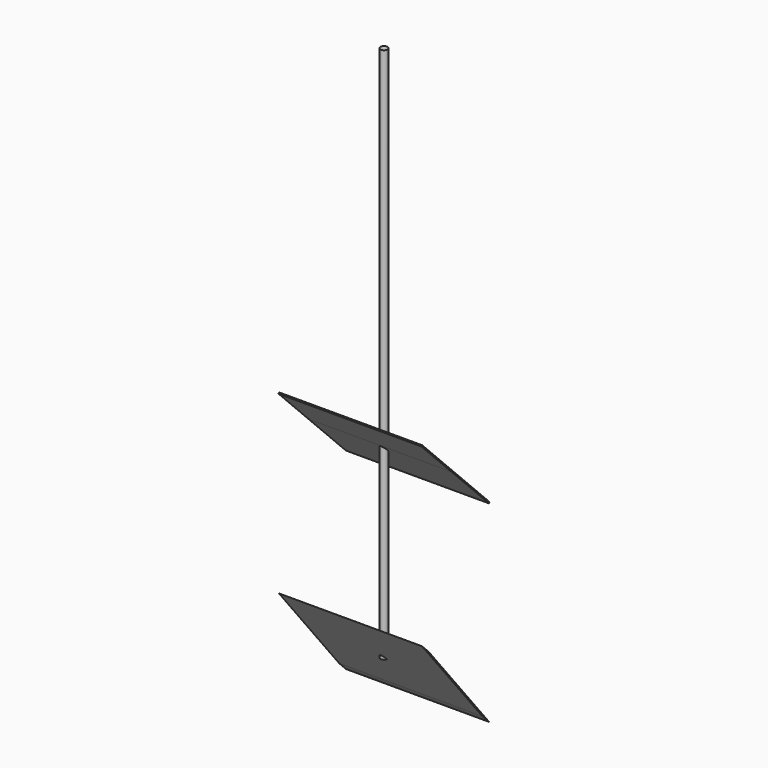
from build123d import *

# Parameters (mm, degrees)
F0_R          = 3
F1_DEPTH      = 450
F3_DEPTH      = 60
F3_DEPTH_BACK = 60


with BuildPart() as f1:
    # F0 (on Top) → F1 (new body)
    with BuildSketch(Plane.XY):
        Circle(F0_R)
    extrude(amount=F1_DEPTH)

    # F2 (on Right) → F3 (join, two sides)
    with BuildSketch(Plane.YZ) as f3_sk:
        Polygon((-28.10705, 35.178118), (-35.178118, 42.249186), (28.10705, -35.178118), (35.178118, -42.249186), align=None)
        Polygon((35.096976, 119.114577), (35.613703, 119.970727), (-3.594312, 159.178742), (-4.11104, 158.322592), align=None)
        Polygon((-4.11104, 158.322592), (-3.594312, 159.178742), (-34.906596, 190.532362), (-35.613703, 189.825255), align=None)
    extrude(amount=F3_DEPTH)
    extrude(f3_sk.sketch, amount=-F3_DEPTH_BACK)


solid = f1.part
